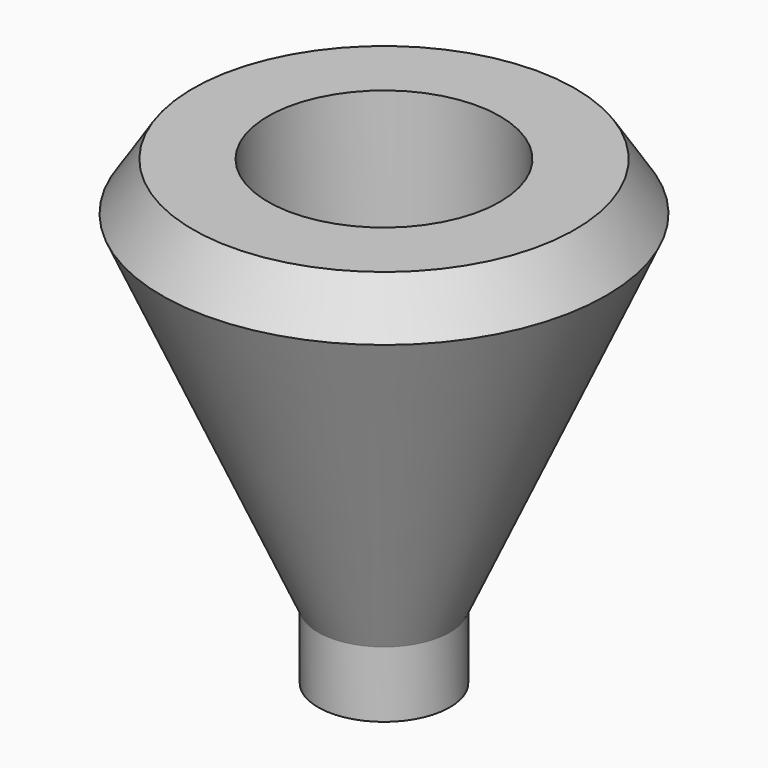
from build123d import *

# Parameters (mm, degrees)
F2_R     = 11.176
F2_R_2   = 3.302
F3_DEPTH = 12.7
F4_SIZE  = 5.08


with BuildPart() as f1:
    # F0 (on Right) → F1 (revolve)
    with BuildSketch(Plane.YZ):
        Polygon((23.495, 21.188779), (3.302, 21.188779), (3.302, -16.767403), (6.35, -16.911221), align=None)
        Polygon((6.35, -16.911221), (3.302, -16.767403), (3.302, -23.261221), (6.35, -23.261221), align=None)
        Polygon((3.302, -23.261221), (3.302, -16.767403), (0, -16.6116), (0, -23.261221), align=None)
    revolve(axis=Axis((0, 0, 4.724398), (0, 0, -1)))

    # F2 (on face) → F3 (cut)
    with BuildSketch(Plane.XY.offset(21.188779)):
        Circle(F2_R)
        Circle(F2_R_2, mode=Mode.SUBTRACT)
    extrude(amount=-F3_DEPTH, mode=Mode.SUBTRACT)

    # F4
    f4_edges = [f1.edges().sort_by_distance(p)[0] for p in [
        (0, -23.495, 21.188779),
    ]]
    chamfer(f4_edges, length=F4_SIZE)


solid = f1.part
